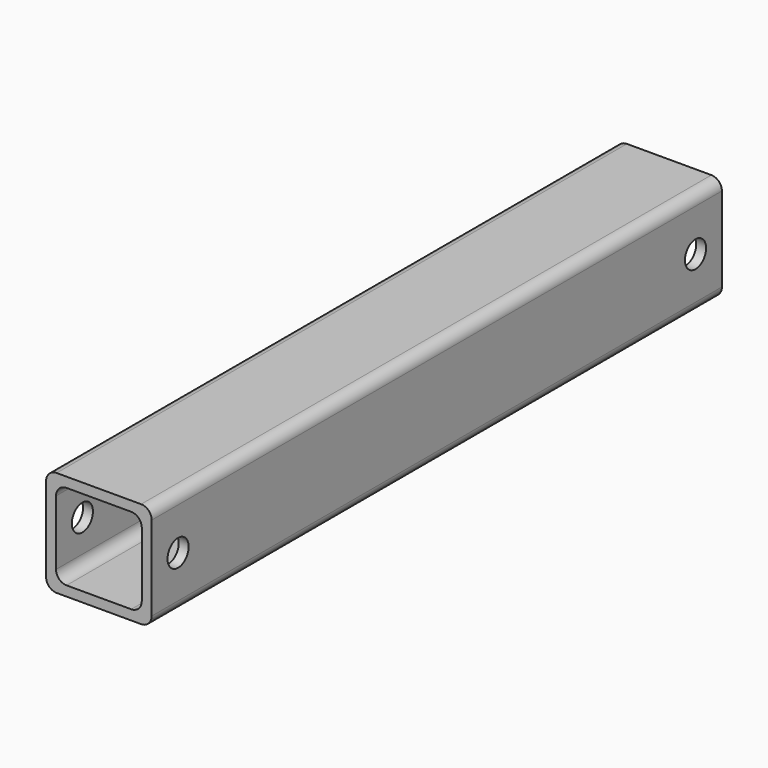
from build123d import *

# Parameters (mm, degrees)
F0_W     = 50.8
F0_H     = 50.8
F0_W_2   = 41.275
F0_H_2   = 41.275
F1_DEPTH = 171.45
F2_R     = 5.08
F3_R     = 6.35
F4_DEPTH = 50.801


with BuildPart() as f1:
    # F0 (on Front) → F1 (new body, symmetric)
    with BuildSketch(Plane.XZ):
        Rectangle(F0_W, F0_H)
        Rectangle(F0_W_2, F0_H_2, mode=Mode.SUBTRACT)
    extrude(amount=F1_DEPTH, both=True)

    # F2
    f2_edges = [f1.edges().sort_by_distance(p)[0] for p in [
        (-20.6375, 0, 20.6375),
        (25.4, 0, -25.4),
        (-25.4, 0, -25.4),
        (25.4, 0, 25.4),
        (20.6375, 0, -20.6375),
        (-25.4, 0, 25.4),
        (20.6375, 0, 20.6375),
        (-20.6375, 0, -20.6375),
    ]]
    fillet(f2_edges, radius=F2_R)

    # F3 (on face) → F4 (cut, through all)
    with BuildSketch(Plane.YZ.offset(25.4)):
        with Locations((-155.575, 0)):
            Circle(F3_R)
        with Locations((155.575, 0)):
            Circle(F3_R)
    extrude(amount=-F4_DEPTH, mode=Mode.SUBTRACT)


solid = f1.part
